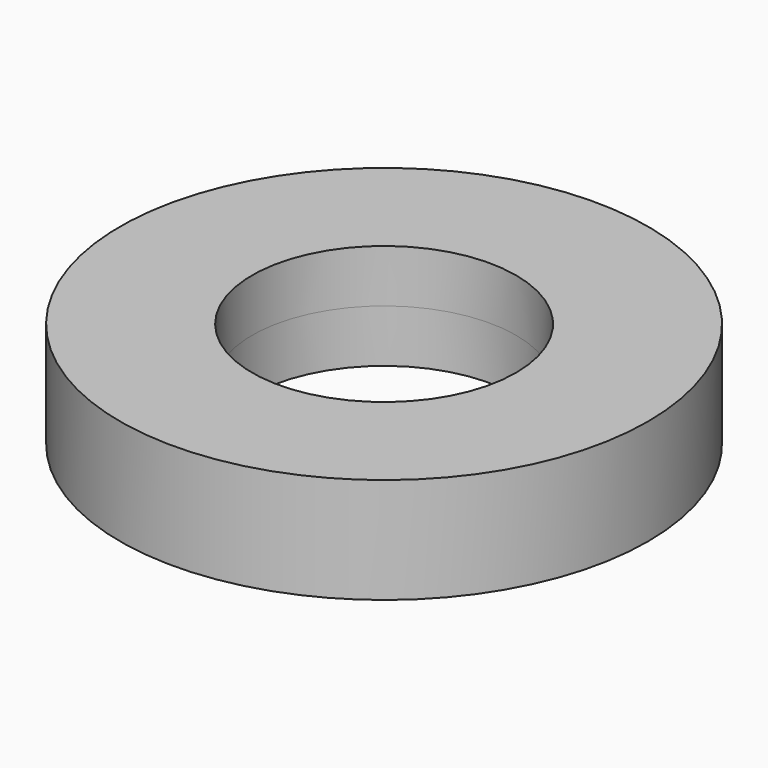
from build123d import *

# Parameters (mm, degrees)
F0_R          = 10
F0_R_2        = 7.525
F1_DEPTH      = 2
F1_TAPER      = -10
F1_DEPTH_BACK = 2
F1_TAPER_BACK = -10
F0_R_3        = 7.5
F0_R_4        = 5
F2_DEPTH      = 2
F2_TAPER      = -10
F2_DEPTH_BACK = 2
F2_TAPER_BACK = -10
F3_R          = 12.6754374972
F3_R_2        = 10
F4_DEPTH      = 2
F4_DEPTH_BACK = 2
F5_R          = 5
F5_R_2        = 1.8774489935
F6_DEPTH      = 2
F6_DEPTH_BACK = 2


with BuildPart() as f1:
    # F0 (on Top) → F1 (new body, two sides)
    with BuildSketch(Plane.XY) as f1_sk:
        Circle(F0_R)
        Circle(F0_R_2, mode=Mode.SUBTRACT)
    extrude(amount=F1_DEPTH, taper=F1_TAPER)
    extrude(f1_sk.sketch, amount=-F1_DEPTH_BACK, taper=F1_TAPER_BACK)

    # F0 (on Top) → F2 (join, two sides)
    with BuildSketch(Plane.XY) as f2_sk:
        Circle(F0_R_3)
        Circle(F0_R_4, mode=Mode.SUBTRACT)
    extrude(amount=F2_DEPTH, taper=F2_TAPER)
    extrude(f2_sk.sketch, amount=-F2_DEPTH_BACK, taper=F2_TAPER_BACK)

    # F3 (on Top) → F4 (cut, two sides)
    with BuildSketch(Plane.XY) as f4_sk:
        Circle(F3_R)
        Circle(F3_R_2, mode=Mode.SUBTRACT)
    extrude(amount=-F4_DEPTH, mode=Mode.SUBTRACT)
    extrude(f4_sk.sketch, amount=F4_DEPTH_BACK, mode=Mode.SUBTRACT)

    # F5 (on Top) → F6 (cut, two sides)
    with BuildSketch(Plane.XY) as f6_sk:
        Circle(F5_R)
        Circle(F5_R_2, mode=Mode.SUBTRACT)
    extrude(amount=-F6_DEPTH, mode=Mode.SUBTRACT)
    extrude(f6_sk.sketch, amount=F6_DEPTH_BACK, mode=Mode.SUBTRACT)


solid = f1.part
